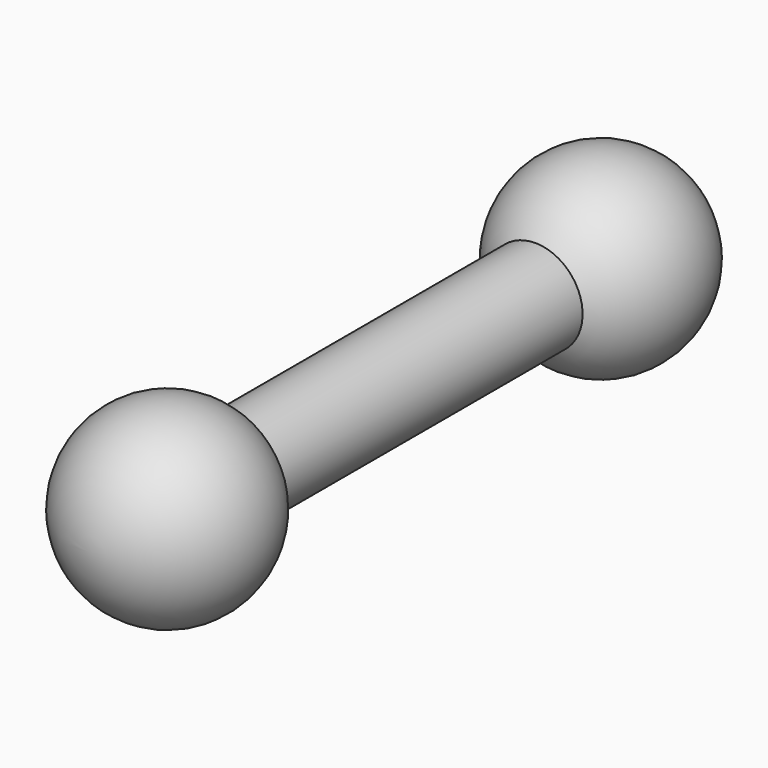
from build123d import *


with BuildPart() as f1:
    # F0 (on Top) → F1 (revolve)
    with BuildSketch(Plane.XY):
        with BuildLine():
            ThreePointArc((0, 49.0985226281), (-12.2672579939, 39.6855245009), (-6.35, 25.4))
            Line((-6.35, 25.4), (0, 25.4))
            Line((0, 25.4), (0, 49.0985226281))
        make_face()
        with BuildLine():
            Line((0, 25.4), (-6.35, 25.4))
            ThreePointArc((-6.35, 25.4), (-3.2870018728, 24.1312646342), (0, 23.6985226281))
            Line((0, 23.6985226281), (0, 25.4))
        make_face()
        with BuildLine():
            ThreePointArc((0, 23.6985226281), (-3.2870018728, 24.1312646342), (-6.35, 25.4))
            Line((-6.35, 25.4), (-6.35, -25.4))
            ThreePointArc((-6.35, -25.4), (-3.2870018728, -24.1312646342), (0, -23.6985226281))
            Line((0, -23.6985226281), (0, 23.6985226281))
        make_face()
        with BuildLine():
            ThreePointArc((0, -23.6985226281), (-3.2870018728, -24.1312646342), (-6.35, -25.4))
            Line((-6.35, -25.4), (0, -25.4))
            Line((0, -25.4), (0, -23.6985226281))
        make_face()
        with BuildLine():
            Line((0, -25.4), (-6.35, -25.4))
            ThreePointArc((-6.35, -25.4), (-12.2672579939, -39.6855245009), (0, -49.0985226281))
            Line((0, -49.0985226281), (0, -25.4))
        make_face()
    revolve(axis=Axis((0, 0, 0), (0, -1, 0)))


solid = f1.part
